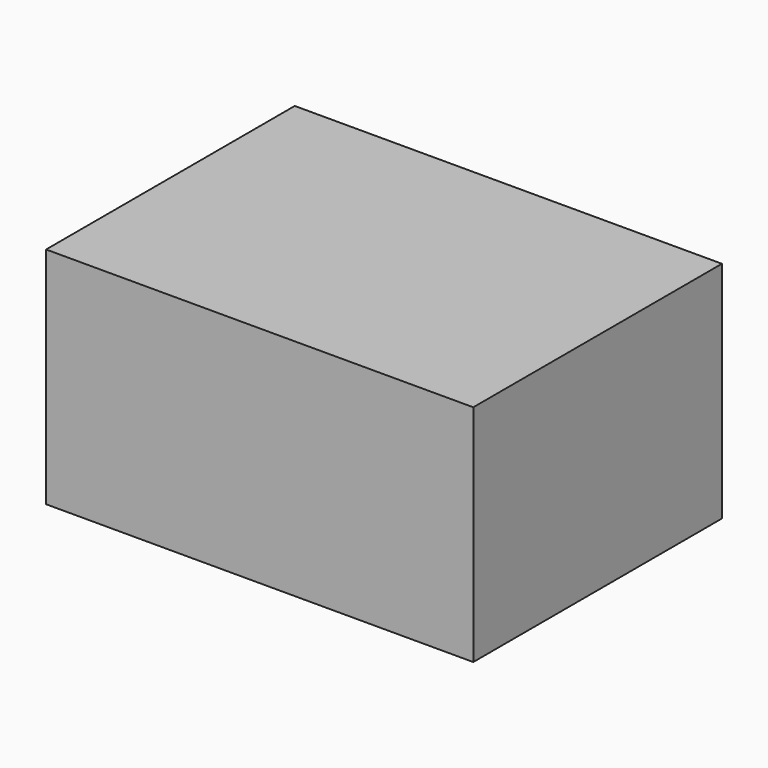
from build123d import *

# Parameters (mm, degrees)
F0_W     = 38.7095995247
F0_H     = 25.2983979881
F0_H_2   = 28.9559997618
F1_DEPTH = 75.184


with BuildPart() as f1:
    # F0 (on Front) → F1 (new body)
    with BuildSketch(Plane.XZ):
        Polygon((12.8015987575, 33.9851975441), (-51.8160015345, 33.9851975441), (-51.8160015345, -20.2692002058), (12.8015987575, -20.2692002058), (12.8015987575, 8.686799556), align=None)
        with Locations((32.1563985199, 21.3359985501)):
            Rectangle(F0_W, F0_H)
        with Locations((32.1563985199, -5.7912003249)):
            Rectangle(F0_W, F0_H_2)
    extrude(amount=-F1_DEPTH)


solid = f1.part
